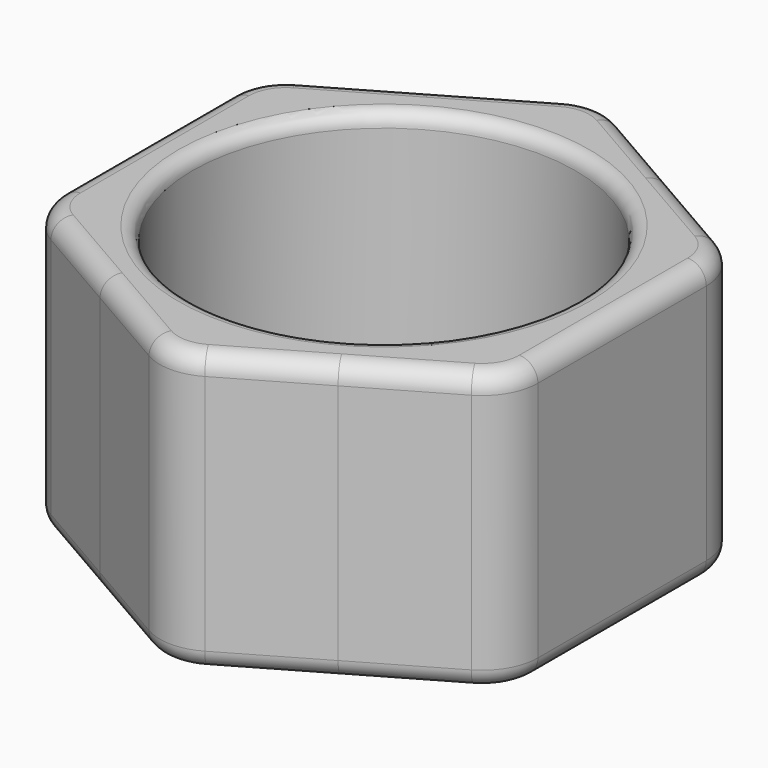
from build123d import *

# Parameters (mm, degrees)
F0_R     = 10.3
F1_DEPTH = 15
F2_R     = 3
F3_R     = 1
F4_R     = 0.75


with BuildPart() as f1:
    # F0 (on Top) → F1 (new body)
    with BuildSketch(Plane.XY):
        with BuildLine():
            ThreePointArc((6.3999998246, 11.0851252697), (11.0851251178, 6.4000000877), (12.8, 0))
            Line((12.8, 0), (12.8, 7.3900834456))
            Line((12.8, 7.3900834456), (6.3999998246, 11.0851252697))
        make_face()
        with BuildLine():
            ThreePointArc((-6.3999998359, 11.0851252632), (-6.6e-09, 12.8), (6.3999998246, 11.0851252697))
            Line((6.3999998246, 11.0851252697), (0, 14.7801668913))
            Line((0, 14.7801668913), (-6.3999998359, 11.0851252632))
        make_face()
        with BuildLine():
            ThreePointArc((-12.8, 0), (-11.0851251211, 6.400000082), (-6.3999998359, 11.0851252632))
            Line((-6.3999998359, 11.0851252632), (-12.8, 7.3900834456))
            Line((-12.8, 7.3900834456), (-12.8, 0))
        make_face()
        with BuildLine():
            Line((-12.8, -7.3900834456), (-6.4000000251, -11.085125154))
            ThreePointArc((-6.4000000251, -11.085125154), (-11.0851251757, -6.3999999875), (-12.8, 0))
            Line((-12.8, 0), (-12.8, -7.3900834456))
        make_face()
        with BuildLine():
            Line((0, -14.7801668913), (6.3999998359, -11.0851252632))
            ThreePointArc((6.3999998359, -11.0851252632), (-1.092e-07, -12.8), (-6.4000000251, -11.085125154))
            Line((-6.4000000251, -11.085125154), (0, -14.7801668913))
        make_face()
        with BuildLine():
            Line((12.8, -7.3900834456), (12.8, 0))
            ThreePointArc((12.8, 0), (11.0851251211, -6.400000082), (6.3999998359, -11.0851252632))
            Line((6.3999998359, -11.0851252632), (12.8, -7.3900834456))
        make_face()
        with BuildLine():
            ThreePointArc((6.3999998359, -11.0851252632), (11.0851251211, -6.400000082), (12.8, 0))
            ThreePointArc((12.8, 0), (11.0851251178, 6.4000000877), (6.3999998246, 11.0851252697))
            ThreePointArc((6.3999998246, 11.0851252697), (-6.6e-09, 12.8), (-6.3999998359, 11.0851252632))
            ThreePointArc((-6.3999998359, 11.0851252632), (-11.0851251211, 6.400000082), (-12.8, 0))
            ThreePointArc((-12.8, 0), (-11.0851251757, -6.3999999875), (-6.4000000251, -11.085125154))
            ThreePointArc((-6.4000000251, -11.085125154), (-1.092e-07, -12.8), (6.3999998359, -11.0851252632))
        make_face()
        Circle(F0_R, mode=Mode.SUBTRACT)
    extrude(amount=F1_DEPTH)

    # F2
    f2_edges = [f1.edges().sort_by_distance(p)[0] for p in [
        (0, 14.780167, 7.5),
        (12.8, 7.390083, 7.5),
        (12.8, -7.390083, 7.5),
        (0, -14.780167, 7.5),
        (-12.8, -7.390083, 7.5),
        (-12.8, 7.390083, 7.5),
    ]]
    fillet(f2_edges, radius=F2_R)

    # F3
    f3_edges = [f1.edges().sort_by_distance(p)[0] for p in [
        (12.8, 0, 15),
        (12.398076, -7.158033, 15),
        (6.4, -11.085125, 15),
        (-6.4, -11.085125, 15),
        (-12.398076, 7.158033, 15),
        (-12.8, 0, 15),
        (-6.4, 11.085125, 15),
        (6.4, 11.085125, 15),
        (0, 14.316065, 15),
        (12.398076, 7.158033, 15),
        (-6.4, -11.085125, 0),
        (12.398076, -7.158033, 0),
    ]]
    fillet(f3_edges, radius=F3_R)

    # F4
    f4_edges = [f1.edges().sort_by_distance(p)[0] for p in [
        (-10.3, 0, 0),
        (-10.3, 0, 15),
    ]]
    fillet(f4_edges, radius=F4_R)


solid = f1.part
